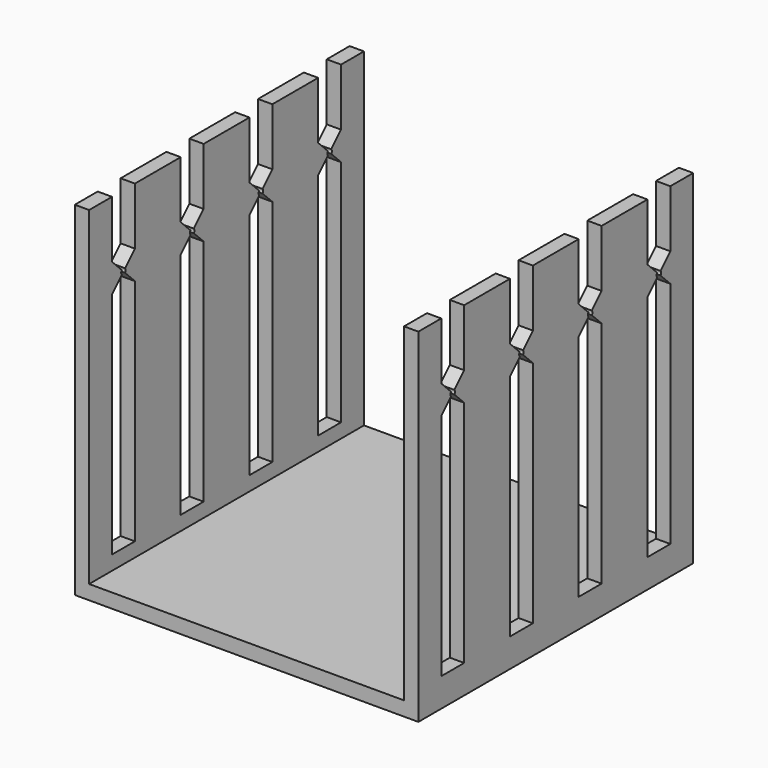
from build123d import *

# Parameters (mm, degrees)
F0_W     = 76.2
F0_H     = 76.2
F1_DEPTH = 76.2
F3_DEPTH = 131.88104
F4_W     = 69.85
F4_H     = 73.025
F5_DEPTH = 151.50575


with BuildPart() as f1:
    # F0 (on Top) → F1 (new body)
    with BuildSketch(Plane.XY):
        Rectangle(F0_W, F0_H)
    extrude(amount=F1_DEPTH)

    # F2 (on face) → F3 (cut)
    with BuildSketch(Plane.YZ.offset(38.1)):
        with BuildLine():
            Line((-25.4, 63.5), (-25.4, 76.2))
            Line((-25.4, 76.2), (-31.75, 76.2))
            Line((-31.75, 76.2), (-31.75, 63.5))
            Line((-31.75, 63.5), (-29.024013, 60.774013))
            ThreePointArc((-29.024013, 60.774013), (-29.21, 60.325), (-29.024013, 59.875987))
            Line((-29.024013, 59.875987), (-31.75, 57.15))
            Line((-31.75, 57.15), (-31.75, 6.35))
            Line((-31.75, 6.35), (-25.4, 6.35))
            Line((-25.4, 6.35), (-25.4, 57.15))
            Line((-25.4, 57.15), (-28.125987, 59.875987))
            ThreePointArc((-28.125987, 59.875987), (-27.94, 60.325), (-28.125987, 60.774013))
            Line((-28.125987, 60.774013), (-25.4, 63.5))
        make_face()
        with BuildLine():
            Line((-6.35, 63.5), (-6.35, 76.2))
            Line((-6.35, 76.2), (-12.7, 76.2))
            Line((-12.7, 76.2), (-12.7, 63.5))
            Line((-12.7, 63.5), (-9.974013, 60.774013))
            ThreePointArc((-9.974013, 60.774013), (-10.16, 60.325), (-9.974013, 59.875987))
            Line((-9.974013, 59.875987), (-12.7, 57.15))
            Line((-12.7, 57.15), (-12.7, 6.35))
            Line((-12.7, 6.35), (-6.35, 6.35))
            Line((-6.35, 6.35), (-6.35, 57.15))
            Line((-6.35, 57.15), (-9.075987, 59.875987))
            ThreePointArc((-9.075987, 59.875987), (-8.89, 60.325), (-9.075987, 60.774013))
            Line((-9.075987, 60.774013), (-6.35, 63.5))
        make_face()
        with BuildLine():
            Line((12.7, 76.2), (6.35, 76.2))
            Line((6.35, 76.2), (6.35, 63.5))
            Line((6.35, 63.5), (9.075987, 60.774013))
            ThreePointArc((9.075987, 60.774013), (8.89, 60.325), (9.075987, 59.875987))
            Line((9.075987, 59.875987), (6.35, 57.15))
            Line((6.35, 57.15), (6.35, 6.35))
            Line((6.35, 6.35), (12.7, 6.35))
            Line((12.7, 6.35), (12.7, 57.15))
            Line((12.7, 57.15), (9.974013, 59.875987))
            ThreePointArc((9.974013, 59.875987), (10.16, 60.325), (9.974013, 60.774013))
            Line((9.974013, 60.774013), (12.7, 63.5))
            Line((12.7, 63.5), (12.7, 76.2))
        make_face()
        with BuildLine():
            Line((31.75, 76.2), (25.4, 76.2))
            Line((25.4, 76.2), (25.4, 63.5))
            Line((25.4, 63.5), (28.125987, 60.774013))
            ThreePointArc((28.125987, 60.774013), (27.94, 60.325), (28.125987, 59.875987))
            Line((28.125987, 59.875987), (25.4, 57.15))
            Line((25.4, 57.15), (25.4, 6.35))
            Line((25.4, 6.35), (31.75, 6.35))
            Line((31.75, 6.35), (31.75, 57.15))
            Line((31.75, 57.15), (29.024013, 59.875987))
            ThreePointArc((29.024013, 59.875987), (29.21, 60.325), (29.024013, 60.774013))
            Line((29.024013, 60.774013), (31.75, 63.5))
            Line((31.75, 63.5), (31.75, 76.2))
        make_face()
        Polygon((-12.7, 76.2), (-6.35, 76.2), (6.35, 76.2), (12.7, 76.2), (25.4, 76.2), (31.75, 76.2), (31.627543, 85.504442), (-31.75, 85.504442), (-31.75, 76.2), (-25.4, 76.2), align=None)
    extrude(amount=-F3_DEPTH, mode=Mode.SUBTRACT)

    # F4 (on face) → F5 (cut)
    with BuildSketch(Plane.XZ.offset(38.1)):
        with Locations((0, 39.6875)):
            Rectangle(F4_W, F4_H)
    extrude(amount=-F5_DEPTH, mode=Mode.SUBTRACT)


solid = f1.part
